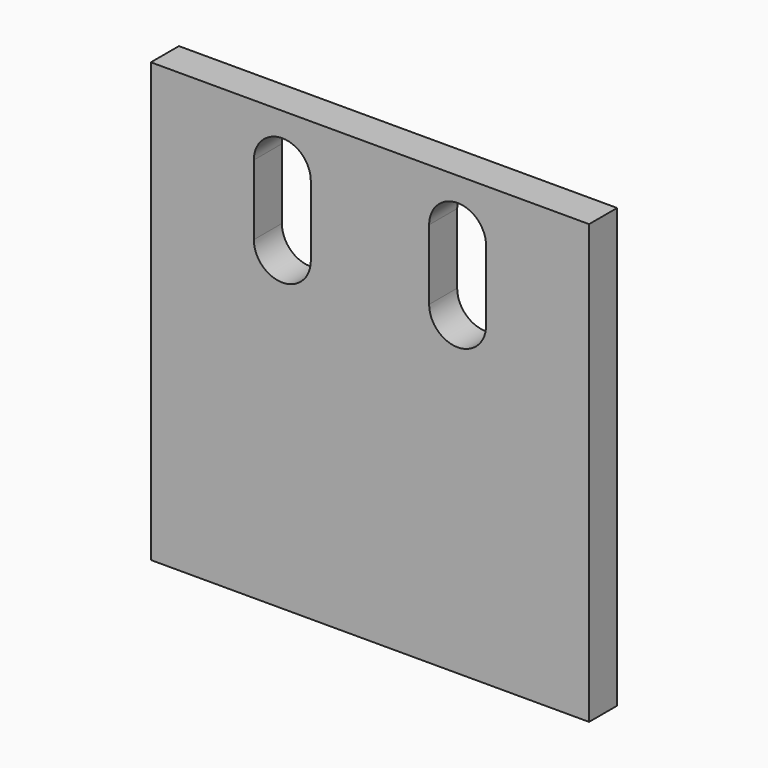
from build123d import *

# Parameters (mm, degrees)
F1_DEPTH = 25
F3_DEPTH = 25


with BuildPart() as f1:
    # F0 (on Right) → F1 (new body)
    with BuildSketch(Plane.YZ):
        Polygon((0, 10), (0, 0), (0, -15), (2, -15), (2, 2), (2, 10), align=None)
    extrude(amount=F1_DEPTH)

    # F2 (on face) → F3 (cut)
    with BuildSketch(Plane(origin=(0, 2, 0), x_dir=(-1, 0, 0), z_dir=(0, 1, 0))):
        with BuildLine():
            Line((-15.875, 3), (-15.875, 7))
            ThreePointArc((-15.875, 7), (-17.5, 8.625), (-19.125, 7))
            Line((-19.125, 7), (-19.125, 3))
            ThreePointArc((-19.125, 3), (-17.5, 1.375), (-15.875, 3))
        make_face()
        with BuildLine():
            Line((-5.875, 3), (-5.875, 7))
            ThreePointArc((-5.875, 7), (-7.5, 8.625), (-9.125, 7))
            Line((-9.125, 7), (-9.125, 3))
            ThreePointArc((-9.125, 3), (-7.5, 1.375), (-5.875, 3))
        make_face()
    extrude(amount=-F3_DEPTH, mode=Mode.SUBTRACT)


solid = f1.part
